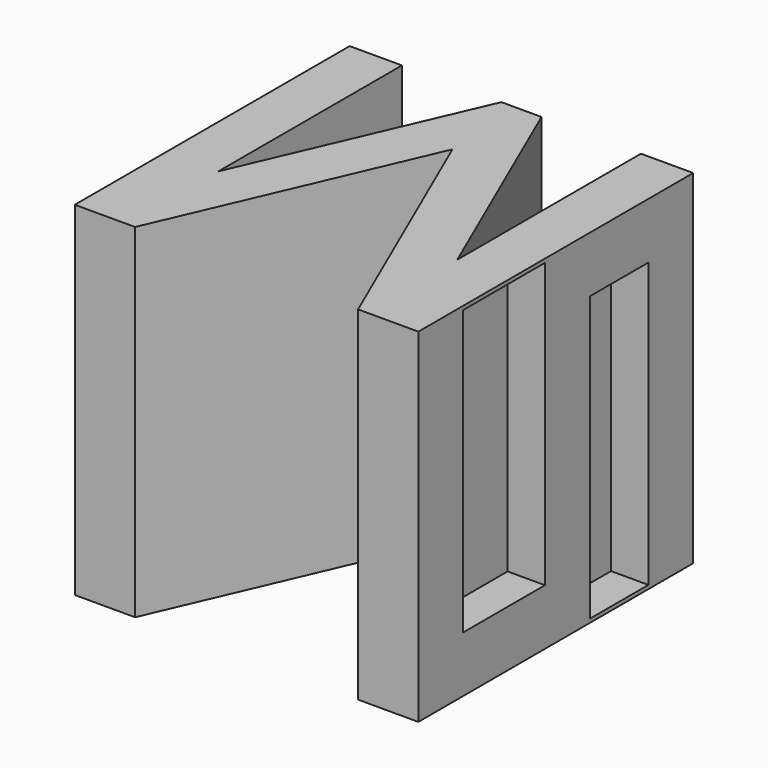
from build123d import *

# Parameters (mm, degrees)
F1_DEPTH = 92
F2_W     = 19.621109
F2_H     = 76
F2_W_2   = 27.378891
F3_DEPTH = 10


with BuildPart() as f1:
    # F0 (on Top) → F1 (new body)
    with BuildSketch(Plane.XY):
        Polygon((-46, 45.39616), (-46, -46.60384), (-29.854571, -46.60384), (0, 22.311091), (29.854571, -46.60384), (46, -46.60384), (46, 45.39616), (32, 45.39616), (32, -16.067849), (5.373236, 45.39616), (0, 45.39616), (-5.373236, 45.39616), (-32, -16.067849), (-32, 45.39616), align=None)
    extrude(amount=-F1_DEPTH)

    # F2 (on face) → F3 (cut)
    with BuildSketch(Plane.YZ.offset(46)):
        with Locations((20.585605, -53)):
            Rectangle(F2_W, F2_H)
        with Locations((-17.914395, -39)):
            Rectangle(F2_W_2, F2_H)
    extrude(amount=-F3_DEPTH, mode=Mode.SUBTRACT)


solid = f1.part
